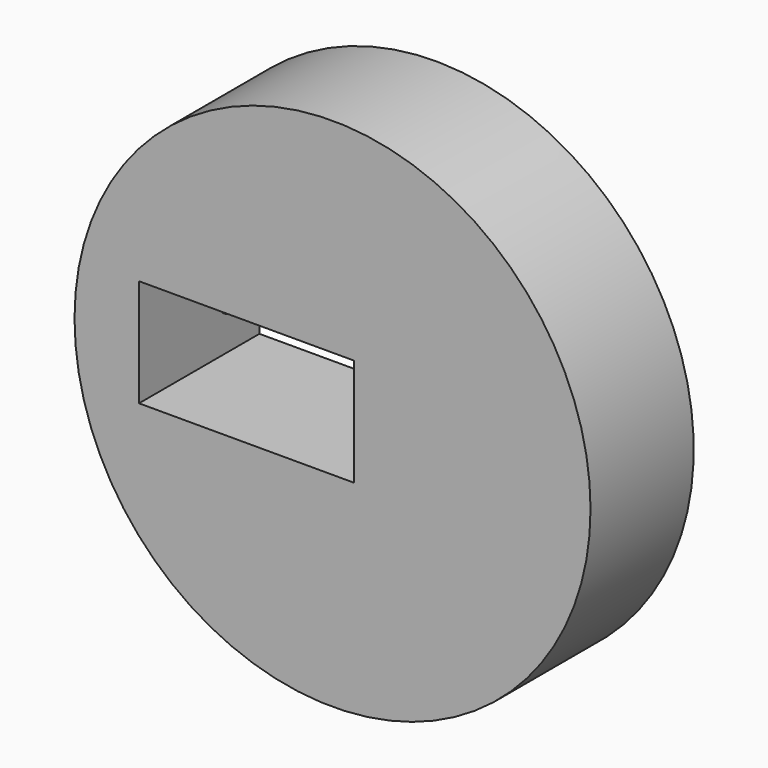
from build123d import *

# Parameters (mm, degrees)
CYLINDER014005814004009_R           = 1
CYLINDER014005814004009_DEPTH       = 12
CYLINDER014005814004009_PITCH_ANGLE = 90
CYLINDER014005814004010_R           = 1
CYLINDER014005814004010_DEPTH       = 4
CYLINDER014005814004010_ROLL_ANGLE  = 90
CYLINDER014005814004011_R           = 0.8
CYLINDER014005814004011_DEPTH       = 4
CYLINDER014005814004011_ROLL_ANGLE  = 90
CYLINDER014005814004012_R           = 0.8
CYLINDER014005814004012_DEPTH       = 4
CYLINDER014005814004012_ROLL_ANGLE  = 90
CYLINDER014005814004013_R           = 0.8
CYLINDER014005814004013_DEPTH       = 4
CYLINDER014005814004013_ROLL_ANGLE  = 90
BOX209_W                            = 10
BOX209_H                            = 11
BOX209_DEPTH                        = 5
CYLINDER014005814004008_R           = 10.3
CYLINDER014005814004008_DEPTH       = 7
CYLINDER014005814004008_ROLL_ANGLE  = 90
CYLINDER014005814004007_R           = 12
CYLINDER014005814004007_DEPTH       = 6
CYLINDER014005814004007_ROLL_ANGLE  = 90
CUT061098127_PLACEMENT_ANGLE        = 180


with BuildPart() as obj1:
    # Cylinder014005814004009 → Cylinder014005814004009 (new body)
    with BuildSketch(Plane.XY):
        Circle(CYLINDER014005814004009_R)
    extrude(amount=CYLINDER014005814004009_DEPTH)


with BuildPart() as obj1_1:
    # Cylinder014005814004009 pitch: moved
    add(obj1.part.rotate(Axis((0, 0, 0), (0, 1, 0)), CYLINDER014005814004009_PITCH_ANGLE))


with BuildPart() as obj1_2:
    # Cylinder014005814004009 placement: moved
    add(obj1_1.part.moved(Location((0, -5.5, 0))))


with BuildPart() as obj2:
    # Cylinder014005814004010 → Cylinder014005814004010 (new body)
    with BuildSketch(Plane.XY):
        Circle(CYLINDER014005814004010_R)
    extrude(amount=CYLINDER014005814004010_DEPTH)


with BuildPart() as obj2_1:
    # Cylinder014005814004010 roll: moved
    add(obj2.part.rotate(Axis((0, 0, 0), (1, 0, 0)), CYLINDER014005814004010_ROLL_ANGLE))


with BuildPart() as obj2_2:
    # Cylinder014005814004010 placement: moved
    add(obj2_1.part.moved(Location((11.5, -2, 0))))


with BuildPart() as obj3:
    # Cylinder014005814004011 → Cylinder014005814004011 (new body)
    with BuildSketch(Plane.XY):
        Circle(CYLINDER014005814004011_R)
    extrude(amount=CYLINDER014005814004011_DEPTH)


with BuildPart() as obj3_1:
    # Cylinder014005814004011 roll: moved
    add(obj3.part.rotate(Axis((0, 0, 0), (1, 0, 0)), CYLINDER014005814004011_ROLL_ANGLE))


with BuildPart() as obj3_2:
    # Cylinder014005814004011 placement: moved
    add(obj3_1.part.moved(Location((-3, -3, 0))))


with BuildPart() as obj4:
    # Cylinder014005814004012 → Cylinder014005814004012 (new body)
    with BuildSketch(Plane.XY):
        Circle(CYLINDER014005814004012_R)
    extrude(amount=CYLINDER014005814004012_DEPTH)


with BuildPart() as obj4_1:
    # Cylinder014005814004012 roll: moved
    add(obj4.part.rotate(Axis((0, 0, 0), (1, 0, 0)), CYLINDER014005814004012_ROLL_ANGLE))


with BuildPart() as obj4_2:
    # Cylinder014005814004012 placement: moved
    add(obj4_1.part.moved(Location((1, -3, 4))))


with BuildPart() as obj5:
    # Cylinder014005814004013 → Cylinder014005814004013 (new body)
    with BuildSketch(Plane.XY):
        Circle(CYLINDER014005814004013_R)
    extrude(amount=CYLINDER014005814004013_DEPTH)


with BuildPart() as obj5_1:
    # Cylinder014005814004013 roll: moved
    add(obj5.part.rotate(Axis((0, 0, 0), (1, 0, 0)), CYLINDER014005814004013_ROLL_ANGLE))


with BuildPart() as obj5_2:
    # Cylinder014005814004013 placement: moved
    add(obj5_1.part.moved(Location((1, -3, -4))))


with BuildPart() as fusion001089087:
    # Box209 → Box209 (new body)
    with BuildSketch(Plane(origin=(-1, -7, -2.5), x_dir=(1, 0, 0), z_dir=(0, 0, 1))):
        with Locations((5, 5.5)):
            Rectangle(BOX209_W, BOX209_H)
    extrude(amount=BOX209_DEPTH)

    # Fusion001089087: union obj1, obj2, obj3, obj4, obj5
    add(obj1_2.part)
    add(obj2_2.part)
    add(obj3_2.part)
    add(obj4_2.part)
    add(obj5_2.part)


with BuildPart() as bat005:
    # Cylinder014005814004008 → Cylinder014005814004008 (new body)
    with BuildSketch(Plane.XY):
        Circle(CYLINDER014005814004008_R)
    extrude(amount=CYLINDER014005814004008_DEPTH)


with BuildPart() as bat005_1:
    # Cylinder014005814004008 roll: moved
    add(bat005.part.rotate(Axis((0, 0, 0), (1, 0, 0)), CYLINDER014005814004008_ROLL_ANGLE))


with BuildPart() as bat005_2:
    # Cylinder014005814004008 placement: moved
    add(bat005_1.part)


with BuildPart() as obj6:
    # Cylinder014005814004007 → Cylinder014005814004007 (new body)
    with BuildSketch(Plane.XY):
        Circle(CYLINDER014005814004007_R)
    extrude(amount=CYLINDER014005814004007_DEPTH)


with BuildPart() as obj6_1:
    # Cylinder014005814004007 roll: moved
    add(obj6.part.rotate(Axis((0, 0, 0), (1, 0, 0)), CYLINDER014005814004007_ROLL_ANGLE))


with BuildPart() as obj6_2:
    # Cylinder014005814004007 placement: moved
    add(obj6_1.part)

    # Fusion001089086: union bat005
    add(bat005_2.part)

    # Cut061098127: cut Fusion001089087
    add(fusion001089087.part, mode=Mode.SUBTRACT)


with BuildPart() as obj6_3:
    # Cut061098127 placement: moved
    add(obj6_2.part.moved(Location((0, -28, 37))).rotate(Axis((0, -28, 37), (0, 0, 1)), CUT061098127_PLACEMENT_ANGLE))


solid = obj6_3.part
